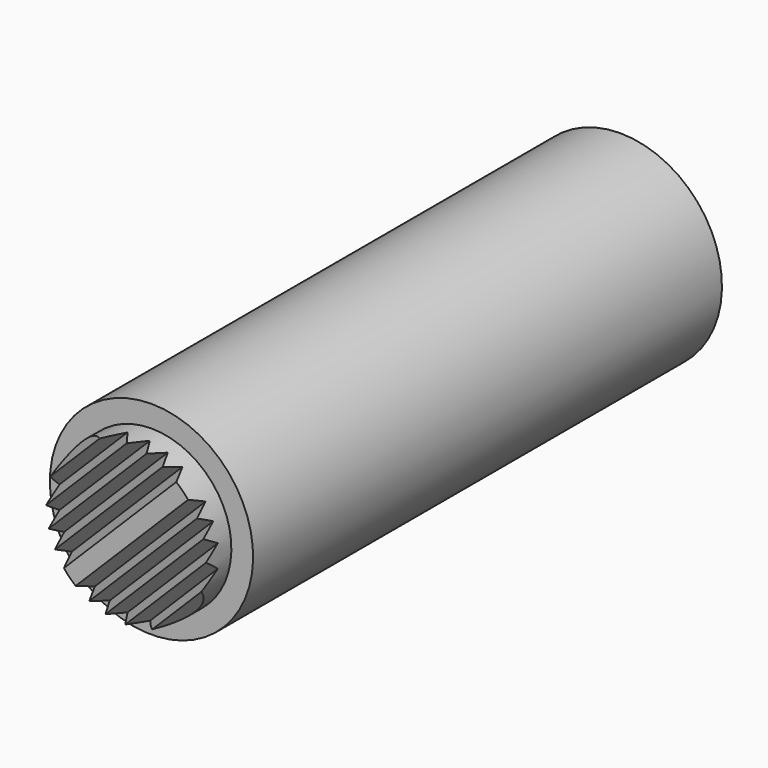
from build123d import *

# Parameters (mm, degrees)
F7_DEPTH      = 8.9543153527
F7_DEPTH_BACK = 25.4


with BuildPart() as f1:
    # F0 (on Right) → F1 (revolve)
    with BuildSketch(Plane.YZ):
        Polygon((-38.496875, 0), (0, 0), (0, 6.33095), (-36.5125, 6.33095), (-36.5125, 4.9784), (-38.496875, 4.9784), align=None)
    revolve(axis=Axis((0, 7.9408854224, 0), (0, 1, 0)))

    # F2 (on Right) → F3 (revolve, cut)
    with BuildSketch(Plane.YZ):
        Polygon((0, 5.6896), (-34.13125, 5.6896), (-35.6557737253, 0), (0, 0), align=None)
    revolve(axis=Axis((0, 5.2174264412, 0), (0, 1, 0)), mode=Mode.SUBTRACT)

    # F6 (on line) → F7 (cut, two sides)
    with BuildSketch(Plane(origin=(0, 0, 0), x_dir=(0, -1, 0), z_dir=(-0.7071067812, 0, -0.7071067812))) as f7_sk:
        Polygon((37.506275, 4.9784), (38.496875, 4.4831), (37.506275, 3.9878), (38.496875, 3.4925), (37.506275, 2.9972), (38.496875, 2.5019), (37.506275, 2.0066), (38.496875, 1.5113), (37.506275, 1.016), (38.496875, 0.5207), (38.496875, -0.5207), (37.506275, -1.016), (38.496875, -1.5113), (37.506275, -2.0066), (38.496875, -2.5019), (37.506275, -2.9972), (38.496875, -3.4925), (37.506275, -3.9878), (38.496875, -4.4831), (37.506275, -4.9784), (37.506275, -6.6715925932), (39.5995303988, -6.6715925932), (39.5995303988, 6.7129228264), (37.506275, 6.7129228264), align=None)
    extrude(amount=-F7_DEPTH, mode=Mode.SUBTRACT)
    extrude(f7_sk.sketch, amount=F7_DEPTH_BACK, mode=Mode.SUBTRACT)


solid = f1.part
